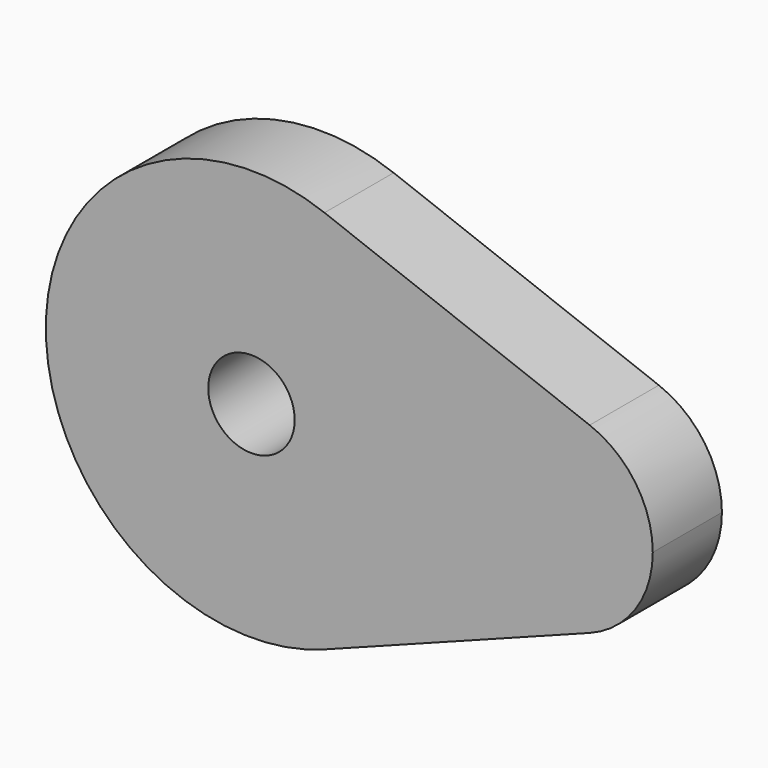
from build123d import *

# Parameters (mm, degrees)
F1_DEPTH = 25.4
F2_R     = 12.7
F3_DEPTH = 25.401


with BuildPart() as f1:
    # F0 (on Front) → F1 (new body)
    with BuildSketch(Plane.XZ):
        with BuildLine():
            ThreePointArc((21.461126, -56.489712), (49.742047, -34.313208), (60.429028, 0))
            ThreePointArc((60.429028, 0), (49.742047, 34.313208), (21.461126, 56.489712))
            ThreePointArc((21.461126, 56.489712), (-60.429028, 0), (21.461126, -56.489712))
        make_face()
        with BuildLine():
            ThreePointArc((21.461126, 56.489712), (49.742047, 34.313208), (60.429028, 0))
            ThreePointArc((60.429028, 0), (72.856392, 23.67004), (99.396931, 26.880956))
            Line((99.396931, 26.880956), (21.461126, 56.489712))
        make_face()
        with BuildLine():
            ThreePointArc((99.396931, -26.880956), (72.856392, -23.67004), (60.429028, 0))
            ThreePointArc((60.429028, 0), (49.742047, -34.313208), (21.461126, -56.489712))
            Line((21.461126, -56.489712), (99.396931, -26.880956))
        make_face()
        with BuildLine():
            ThreePointArc((99.396931, 26.880956), (72.856392, 23.67004), (60.429028, 0))
            ThreePointArc((60.429028, 0), (72.856392, -23.67004), (99.396931, -26.880956))
            ThreePointArc((99.396931, -26.880956), (112.85457, -16.328138), (117.940032, 0))
            ThreePointArc((117.940032, 0), (112.85457, 16.328138), (99.396931, 26.880956))
        make_face()
    extrude(amount=F1_DEPTH)

    # F2 (on face) → F3 (cut, through all)
    with BuildSketch(Plane.XZ.offset(25.4)):
        Circle(F2_R)
    extrude(amount=-F3_DEPTH, mode=Mode.SUBTRACT)


solid = f1.part
